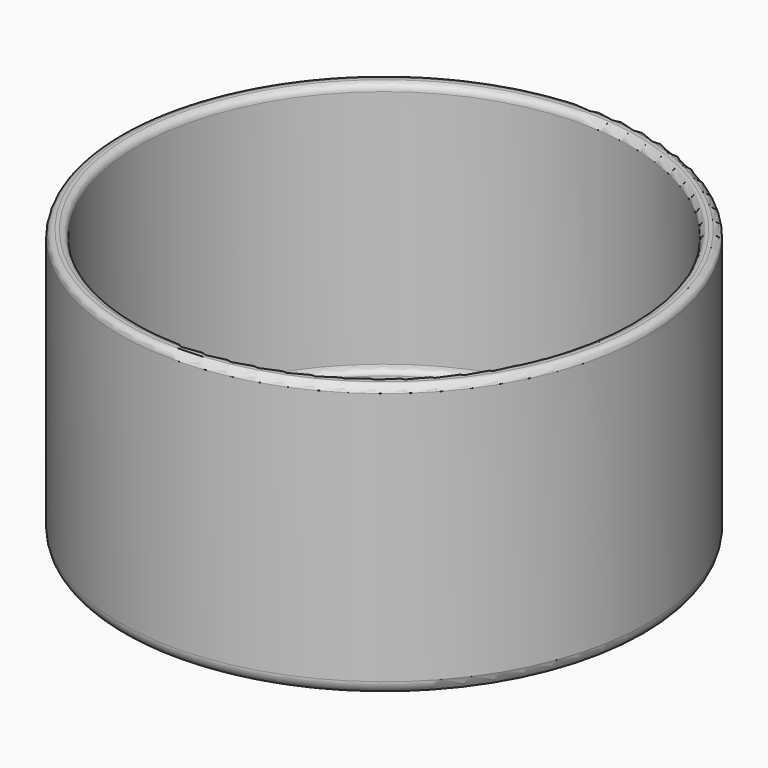
from build123d import *

# Parameters (mm, degrees)
SKETCH_R     = 38.5
PAD_DEPTH    = 40
SKETCH001_R  = 36
POCKET_DEPTH = 37
FILLET_R     = 1
FILLET001_R  = 2
FILLET002_R  = 1


with BuildPart() as part:
    # Sketch → Pad (new body)
    with BuildSketch(Plane.XY):
        Circle(SKETCH_R)
    extrude(amount=PAD_DEPTH)

    # Sketch001 (on Face3 of Pad) → Pocket (cut)
    with BuildSketch(Plane.XY.offset(40)):
        Circle(SKETCH001_R)
    extrude(amount=-POCKET_DEPTH, mode=Mode.SUBTRACT)

    # Fillet
    fillet_edges = [part.edges().sort_by_distance(p)[0] for p in [
        (-38.5, 0, 40),
        (-36, 0, 40),
    ]]
    fillet(fillet_edges, radius=FILLET_R)

    # Fillet001
    fillet001_edges = [part.edges().sort_by_distance(p)[0] for p in [
        (-38.5, 0, 0),
    ]]
    fillet(fillet001_edges, radius=FILLET001_R)

    # Fillet002
    fillet002_edges = [part.edges().sort_by_distance(p)[0] for p in [
        (-36, 0, 3),
    ]]
    fillet(fillet002_edges, radius=FILLET002_R)


solid = part.part
